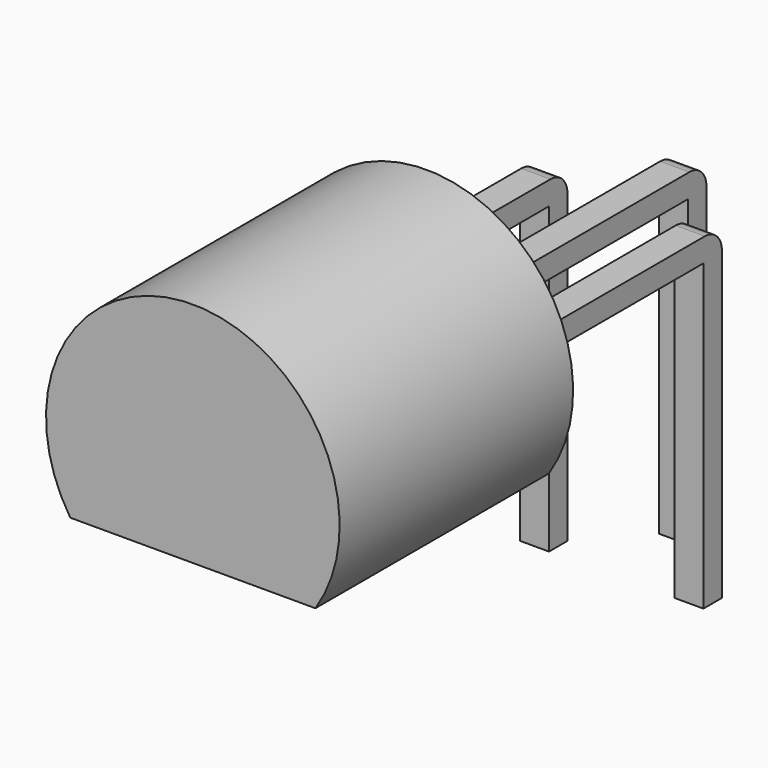
from build123d import *

# Parameters (mm, degrees)
SKETCH001_W   = 0.48
SKETCH001_H   = 0.38
PAD001_DEPTH  = 5
PAD_DEPTH     = 4.8
SKETCH002_W   = 0.48
SKETCH002_H   = 4.3
SKETCH002_H_2 = 5.57
PAD002_DEPTH  = 0.38
FILLET_R      = 0.35


with BuildPart() as pad001:
    # Sketch001 → Pad001 (new body)
    with BuildSketch(Plane.XY.offset(1.4)):
        Rectangle(SKETCH001_W, SKETCH001_H)
        with Locations((1.27, 1.27)):
            Rectangle(SKETCH001_W, SKETCH001_H)
        with Locations((2.54, 0)):
            Rectangle(SKETCH001_W, SKETCH001_H)
    extrude(amount=-PAD001_DEPTH)


with BuildPart() as pad:
    # Sketch → Pad (new body)
    with BuildSketch(Plane(origin=(0, -4, 1.4), x_dir=(1, 0, 0), z_dir=(0, -1, 0))):
        with BuildLine():
            Line((-0.745769, -1.33), (3.285769, -1.33))
            ThreePointArc((3.285769, -1.33), (1.27, 2.415), (-0.745769, -1.33))
        make_face()
    extrude(amount=PAD_DEPTH)


with BuildPart() as obj1:
    # Sketch002 → Pad002 (new body)
    with BuildSketch(Plane.XY.offset(1.4)):
        with Locations((2.54, -1.96)):
            Rectangle(SKETCH002_W, SKETCH002_H)
        with Locations((1.27, -1.325)):
            Rectangle(SKETCH002_W, SKETCH002_H_2)
        with Locations((0, -1.96)):
            Rectangle(SKETCH002_W, SKETCH002_H)
    extrude(amount=PAD002_DEPTH)

    # Fillet
    fillet_edges = [obj1.edges().sort_by_distance(p)[0] for p in [
        (2.54, 0.19, 1.78),
        (0, 0.19, 1.78),
        (1.27, 1.46, 1.78),
    ]]
    fillet(fillet_edges, radius=FILLET_R)

    # obj1: union Pad001, Pad
    add(pad001.part)
    add(pad.part)


solid = obj1.part
